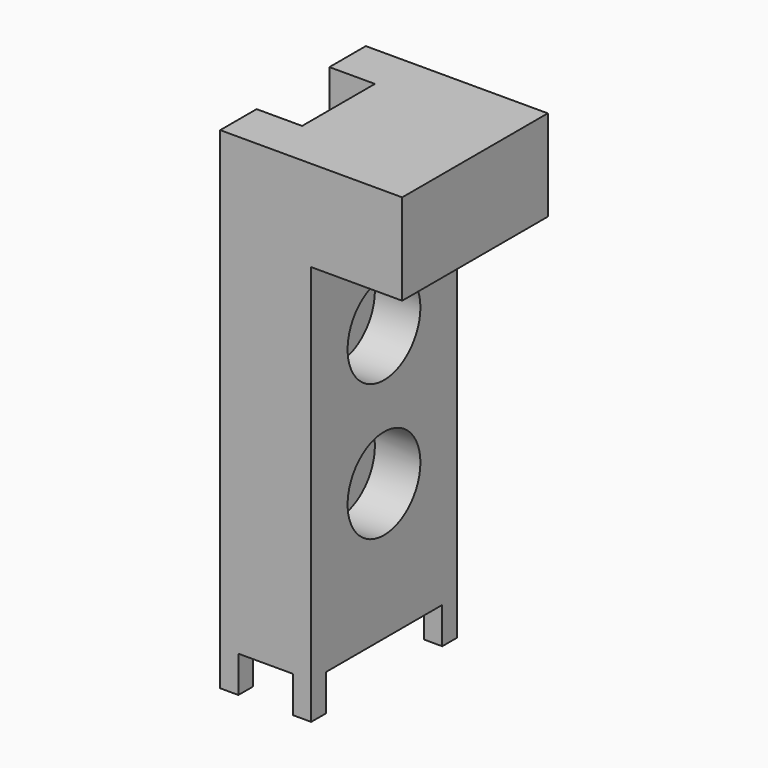
from build123d import *

# Parameters (mm, degrees)
F1_DEPTH  = 100
F2_R      = 25
F3_DEPTH  = 25
F5_W      = 40
F5_H      = 80
F6_DEPTH  = 25
F7_R      = 15
F8_DEPTH  = 20
F10_DEPTH = 20
F11_W     = 50
F11_H     = 50
F12_DEPTH = 25


with BuildPart() as f1:
    # F0 (on Front) → F1 (new body)
    with BuildSketch(Plane.XZ):
        Polygon((-25, -100), (25, -100), (25, 100), (75, 100), (75, 150), (-25, 150), (-25, 100), align=None)
    extrude(amount=-F1_DEPTH)

    # F2 (on face) → F3 (cut)
    with BuildSketch(Plane.YZ.offset(25)):
        with Locations((50, -25)):
            Circle(F2_R)
        with Locations((50, 50)):
            Circle(F2_R)
    extrude(amount=-F3_DEPTH, mode=Mode.SUBTRACT)

    # F5 (on face) → F6 (cut)
    with BuildSketch(Plane(origin=(0, 0, -100), x_dir=(1, 0, 0), z_dir=(0, 0, -1))):
        with Locations((0, -50)):
            Rectangle(F5_W, F5_H)
    extrude(amount=-F6_DEPTH, mode=Mode.SUBTRACT)

    # F7 (on face) → F8 (join)
    with BuildSketch(Plane(origin=(0, 0, -75), x_dir=(1, 0, 0), z_dir=(0, 0, -1))):
        with Locations((0, -50)):
            Circle(F7_R)
    extrude(amount=F8_DEPTH)

    # F9 (on face) → F10 (join)
    with BuildSketch(Plane(origin=(0, 0, -100), x_dir=(1, 0, 0), z_dir=(0, 0, -1))):
        Polygon((-25, -10), (-20, -10), (-15, -10), (-15, 0), (-25, 0), align=None)
        Polygon((20, -10), (25, -10), (25, 0), (15, 0), (15, -10), align=None)
        Polygon((15, -100), (25, -100), (25, -90), (20, -90), (15, -90), align=None)
        Polygon((-25, -100), (-15, -100), (-15, -90), (-20, -90), (-25, -90), align=None)
    extrude(amount=F10_DEPTH)

    # F11 (on face) → F12 (cut)
    with BuildSketch(Plane(origin=(-25, 0, 0), x_dir=(0, -1, 0), z_dir=(-1, 0, 0))):
        with Locations((-50, 125)):
            Rectangle(F11_W, F11_H)
    extrude(amount=-F12_DEPTH, mode=Mode.SUBTRACT)


solid = f1.part
